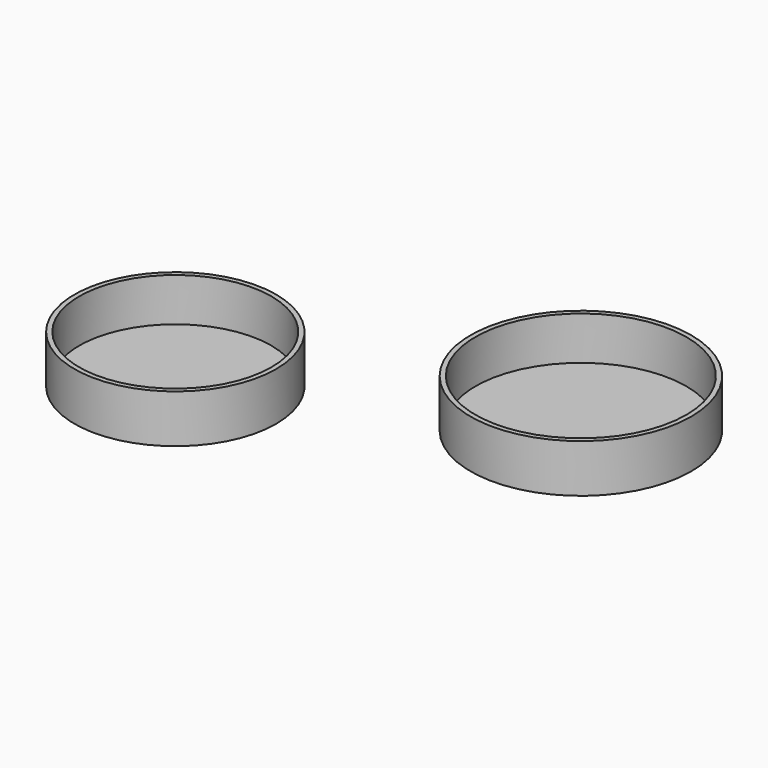
from build123d import *

# Parameters (mm, degrees)
F0_R     = 52.3191449933
F1_DEPTH = 25
F0_R_2   = 57.1992662259
F2_T     = -2.5
F2_2_T   = -2.5


with BuildPart() as f1:
    # F0 (on Top) → F1 (new body)
    with BuildSketch(Plane.XY):
        with Locations((-87.1836170554, -47.8549711406)):
            Circle(F0_R)
    extrude(amount=F1_DEPTH)

    # F2
    f2_openings = [f1.faces().sort_by_distance(p)[0] for p in [
        (-87.183617, -47.854971, 25),
    ]]
    offset(amount=F2_T, openings=f2_openings)


with BuildPart() as f1b:
    # F0 (on Top) → F1, piece 2 (new body)
    with BuildSketch(Plane.XY):
        with Locations((65.2098879218, 24.5376173407)):
            Circle(F0_R_2)
    extrude(amount=F1_DEPTH)

    # F2#2
    f2_2_openings = [f1b.faces().sort_by_distance(p)[0] for p in [
        (65.209888, 24.537617, 25),
    ]]
    offset(amount=F2_2_T, openings=f2_2_openings)


solid = Compound([f1.part, f1b.part])
